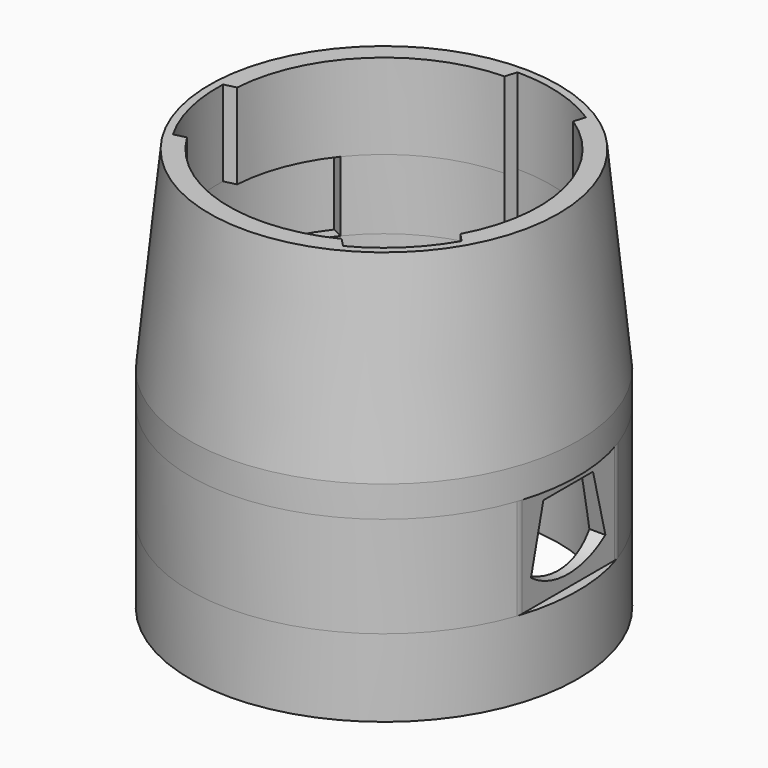
from build123d import *

# Parameters (mm, degrees)
FACE005_R        = 20
EXTRUDE006_DEPTH = 5
EXTRUDE005_DEPTH = 9
EXTRUDE004_DEPTH = 11
EXTRUDE003_DEPTH = 47.5
OFFSET001_R      = 25
OFFSET001_R_2    = 22.5
EXTRUDE002_DEPTH = 4
FACE_R           = 25
FACE_R_2         = 22.5
EXTRUDE_DEPTH    = 10
OFFSET_R         = 22.5
EXTRUDE001_DEPTH = 13
FILLET_R         = 2
FILLET001_R      = 2
FILLET002_R      = 2
FILLET003_R      = 2


with BuildPart() as extrude006:
    # Face005 → Extrude006 (new body)
    with BuildSketch(Plane(origin=(0, 0, 32), x_dir=(0, 1, 0), z_dir=(0, 0, 1))):
        Circle(FACE005_R)
    extrude(amount=-EXTRUDE006_DEPTH)


with BuildPart() as extrude005:
    # Face004 → Extrude005 (new body)
    with BuildSketch(Plane(origin=(0, 0, 41), x_dir=(0, 1, 0), z_dir=(0, 0, 1))):
        with BuildLine():
            ThreePointArc((19.995218, 0.437313), (17.937006, 8.846685), (12.517677, 15.598325))
            Line((12.517677, 15.598325), (13.193644, 16.975799))
            ThreePointArc((13.193644, 16.975799), (1.472523, 21.449515), (-10.75, 18.619546))
            Line((-10.75, 18.619546), (-10.376333, 17.09771))
            ThreePointArc((-10.376333, 17.09771), (-16.629957, 11.11056), (-19.767385, 3.041464))
            Line((-19.767385, 3.041464), (-21.298295, 2.938131))
            ThreePointArc((-21.298295, 2.938131), (-19.312086, -9.449515), (-10.75, -18.619546))
            Line((-10.75, -18.619546), (-9.618885, -17.535024))
            ThreePointArc((-9.618885, -17.535024), (-1.307049, -19.957245), (7.249707, -18.639789))
            Line((7.249707, -18.639789), (8.104651, -19.913931))
            ThreePointArc((8.104651, -19.913931), (17.839563, -12), (21.5, 0))
            Line((21.5, 0), (19.995218, 0.437313))
        make_face()
    extrude(amount=-EXTRUDE005_DEPTH)


with BuildPart() as extrude004:
    # Sketch003 (on Face2 of Cone) → Extrude004 (new body)
    with BuildSketch(Plane.XY.offset(52)):
        with BuildLine():
            ThreePointArc((11.52325, 18.151163), (6, 20.645823), (0, 21.5))
            Line((-0.437313, 19.995218), (0, 21.5))
            ThreePointArc((-0.437313, 19.995218), (-13.841681, 14.436338), (-19.959157, 1.277512))
            Line((-21.480993, 0.903846), (-19.959157, 1.277512))
            ThreePointArc((-21.480993, 0.903846), (-20.879807, -5.126759), (-18.619546, -10.75))
            Line((-17.09771, -10.376333), (-18.619546, -10.75))
            ThreePointArc((-17.09771, -10.376333), (-5.581395, -19.205417), (8.873221, -17.923893))
            Line((8.873221, -17.923893), (9.957743, -19.055009))
            ThreePointArc((9.957743, -19.055009), (14.879807, -15.519064), (18.619546, -10.75))
            Line((17.535024, -9.618885), (18.619546, -10.75))
            ThreePointArc((17.535024, -9.618885), (19.423076, 4.769078), (11.085937, 16.646381))
            Line((11.085937, 16.646381), (11.52325, 18.151163))
        make_face()
    extrude(amount=-EXTRUDE004_DEPTH)


with BuildPart() as cut003:
    # Cone → Cone (revolve)
    with BuildSketch(Plane(origin=(0, 0, 27), x_dir=(1, 0, 0), z_dir=(0, -1, 0))):
        Polygon((0, 0), (25, 0), (22.5, 25), (0, 25), align=None)
    revolve(axis=Axis((0, 0, 27), (0, 0, 1)))

    # Cut001: cut Extrude004
    add(extrude004.part, mode=Mode.SUBTRACT)

    # Cut002: cut Extrude005
    add(extrude005.part, mode=Mode.SUBTRACT)

    # Cut003: cut Extrude006
    add(extrude006.part, mode=Mode.SUBTRACT)


with BuildPart() as extrude003:
    # Face002 → Extrude003 (new body)
    with BuildSketch(Plane(origin=(23.749999, 0, 16.462815), x_dir=(0, -1, 0), z_dir=(1, 0, 0))):
        with BuildLine():
            Line((-4, -5.037185), (4, -5.037185))
            Line((4, -5.037185), (6, 2.962815))
            ThreePointArc((6, 2.962815), (0, 4.962815), (-6, 2.962815))
            Line((-6, 2.962815), (-4, -5.037185))
        make_face()
    extrude(amount=-EXTRUDE003_DEPTH)


with BuildPart() as extrude002:
    # Offset001 → Extrude002 (new body)
    with BuildSketch(Plane(origin=(0, 0, 23), x_dir=(0, 1, 0), z_dir=(0, 0, 1))):
        Circle(OFFSET001_R)
        Circle(OFFSET001_R_2, mode=Mode.SUBTRACT)
    extrude(amount=EXTRUDE002_DEPTH)


with BuildPart() as fusion:
    # Face → Extrude (new body)
    with BuildSketch(Plane(origin=(0, 0, 0), x_dir=(0, 1, 0), z_dir=(0, 0, 1))):
        Circle(FACE_R)
        Circle(FACE_R_2, mode=Mode.SUBTRACT)
    extrude(amount=EXTRUDE_DEPTH)

    # Fusion: union Extrude002
    add(extrude002.part)


with BuildPart() as fusion002:
    # Offset → Extrude001 (new body)
    with BuildSketch(Plane(origin=(0, 0, 10), x_dir=(0, 1, 0), z_dir=(0, 0, 1))):
        with BuildLine():
            ThreePointArc((7.80625, -23.749999), (25, 0), (7.80625, 23.749999))
            Line((7.80625, 23.749999), (-7.80625, 23.749999))
            ThreePointArc((-7.80625, 23.749999), (-25, 0), (-7.80625, -23.749999))
            Line((-7.80625, -23.749999), (7.80625, -23.749999))
        make_face()
        Circle(OFFSET_R, mode=Mode.SUBTRACT)
    extrude(amount=EXTRUDE001_DEPTH)

    # Fillet
    fillet_edges = [fusion002.edges().sort_by_distance(p)[0] for p in [
        (23.749999, -7.80625, 16.5),
    ]]
    fillet(fillet_edges, radius=FILLET_R)

    # Fillet001
    fillet001_edges = [fusion002.edges().sort_by_distance(p)[0] for p in [
        (23.749999, 7.80625, 16.5),
    ]]
    fillet(fillet001_edges, radius=FILLET001_R)

    # Fillet002
    fillet002_edges = [fusion002.edges().sort_by_distance(p)[0] for p in [
        (-23.749999, 7.80625, 16.5),
    ]]
    fillet(fillet002_edges, radius=FILLET002_R)

    # Fillet003
    fillet003_edges = [fusion002.edges().sort_by_distance(p)[0] for p in [
        (-23.749999, -7.80625, 16.5),
    ]]
    fillet(fillet003_edges, radius=FILLET003_R)

    # Fusion001: union Fusion
    add(fusion.part)

    # Cut: cut Extrude003
    add(extrude003.part, mode=Mode.SUBTRACT)

    # Fusion002: union Cut003
    add(cut003.part)


solid = fusion002.part
